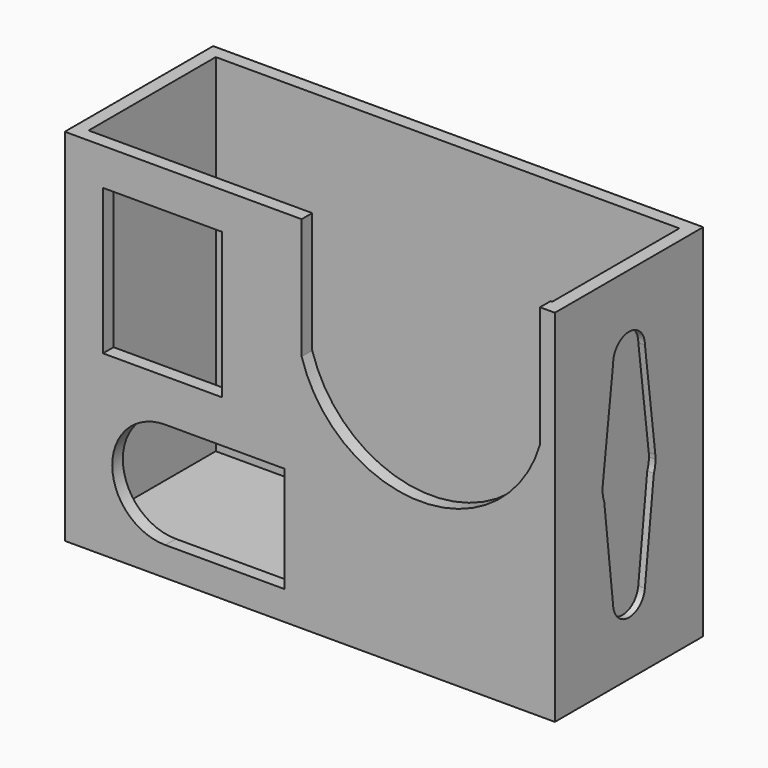
from build123d import *

# Parameters (mm, degrees)
F0_W     = 58.7502
F0_H     = 43.18
F1_DEPTH = 22.225
F2_T     = -1.5875
F3_W     = 14.2875
F3_H     = 17.4625
F4_DEPTH = 3.175
F6_DEPTH = 0.79375
F7_R     = 2.54
F8_DEPTH = 6.35


with BuildPart() as f1:
    # F0 (on Front) → F1 (new body)
    with BuildSketch(Plane.XZ):
        with Locations((-10.3959683329, -10.1375534884)):
            Rectangle(F0_W, F0_H)
    extrude(amount=F1_DEPTH)

    # F2
    f2_openings = [f1.faces().sort_by_distance(p)[0] for p in [
        (-10.395968, -11.1125, 11.452447),
    ]]
    offset(amount=F2_T, openings=f2_openings)

    # F3 (on face) → F4 (cut)
    with BuildSketch(Plane.XZ.offset(22.225)):
        with BuildLine():
            Line((17.1960732201, 11.4524465116), (-11.3789267799, 11.4524465116))
            Line((-11.3789267799, 11.4524465116), (-11.3789267799, -3.0465692528))
            ThreePointArc((-11.3789267799, -3.0465692528), (2.9085732201, -13.7111715641), (17.1960732201, -3.0465692528))
            Line((17.1960732201, -3.0465692528), (17.1960732201, 11.4524465116))
        make_face()
        with Locations((-28.0476767799, -1.7169438296)):
            Rectangle(F3_W, F3_H)
        with BuildLine():
            Line((-13.4438804602, -15.5461690363), (-27.7313804602, -15.5461690363))
            ThreePointArc((-27.7313804602, -15.5461690363), (-34.0813804602, -21.8961690363), (-27.7313804602, -28.2461690363))
            Line((-27.7313804602, -28.2461690363), (-13.4438804602, -28.2461690363))
            Line((-13.4438804602, -28.2461690363), (-13.4438804602, -15.5461690363))
        make_face()
    extrude(amount=-F4_DEPTH, mode=Mode.SUBTRACT)

    # F5 (on face) → F6 (cut)
    with BuildSketch(Plane.YZ.offset(18.9791316671)):
        with BuildLine():
            ThreePointArc((-7.3954814436, -11.5285062603), (-7.2071898997, -10.8443275565), (-7.14375, -10.1375534884))
            ThreePointArc((-7.14375, -10.1375534884), (-7.1517294651, -9.8860115785), (-7.1756357738, -9.6354811558))
            Line((-7.1756357738, -9.6354811558), (-7.3954814436, -11.5285062603))
        make_face()
        with BuildLine():
            Line((-7.3954814436, -11.5285062603), (-7.1756357738, -9.6354811558))
            ThreePointArc((-7.1756357738, -9.6354811558), (-11.1125, -6.1688034884), (-15.0493642262, -9.6354811558))
            Line((-15.0493642262, -9.6354811558), (-14.8295185564, -11.5285062603))
            ThreePointArc((-14.8295185564, -11.5285062603), (-11.1125, -14.1063034884), (-7.3954814436, -11.5285062603))
        make_face()
        with BuildLine():
            ThreePointArc((-15.0493642262, -9.6354811558), (-11.1125, -6.1688034884), (-7.1756357738, -9.6354811558))
            Line((-7.1756357738, -9.6354811558), (-8.73125, 2.5624465116))
            ThreePointArc((-8.73125, 2.5624465116), (-11.1125, 0.1811965116), (-13.49375, 2.5624465116))
            Line((-13.49375, 2.5624465116), (-15.0493642262, -9.6354811558))
        make_face()
        with BuildLine():
            Line((-8.7408400071, -23.1129852184), (-7.3954814436, -11.5285062603))
            ThreePointArc((-7.3954814436, -11.5285062603), (-11.1125, -14.1063034884), (-14.8295185564, -11.5285062603))
            Line((-14.8295185564, -11.5285062603), (-13.4841599929, -23.1129852184))
            ThreePointArc((-13.4841599929, -23.1129852184), (-11.2504462955, -20.4539418213), (-8.7249, -22.8375534884))
            ThreePointArc((-8.7249, -22.8375534884), (-8.7288883329, -22.9754997838), (-8.7408400071, -23.1129852184))
        make_face()
        with BuildLine():
            Line((-14.8295185564, -11.5285062603), (-15.0493642262, -9.6354811558))
            ThreePointArc((-15.0493642262, -9.6354811558), (-15.0547539776, -10.5953854865), (-14.8295185564, -11.5285062603))
        make_face()
        with BuildLine():
            ThreePointArc((-13.49375, 2.5624465116), (-11.1125, 0.1811965116), (-8.73125, 2.5624465116))
            ThreePointArc((-8.73125, 2.5624465116), (-11.1125, 4.9436965116), (-13.49375, 2.5624465116))
        make_face()
        with BuildLine():
            ThreePointArc((-13.4841599929, -23.1129852184), (-11.1125, -25.2251534884), (-8.7408400071, -23.1129852184))
            ThreePointArc((-8.7408400071, -23.1129852184), (-8.7288883329, -22.9754997838), (-8.7249, -22.8375534884))
            ThreePointArc((-8.7249, -22.8375534884), (-11.2504462955, -20.4539418213), (-13.4841599929, -23.1129852184))
        make_face()
    extrude(amount=-F6_DEPTH, mode=Mode.SUBTRACT)

    # F7 (on face) → F8 (join)
    with BuildSketch(Plane(origin=(-39.7710683329, 0, 0), x_dir=(0, -1, 0), z_dir=(-1, 0, 0))):
        with Locations((11.1125, -10.1375534884)):
            Circle(F7_R)
    extrude(amount=F8_DEPTH)


solid = f1.part
